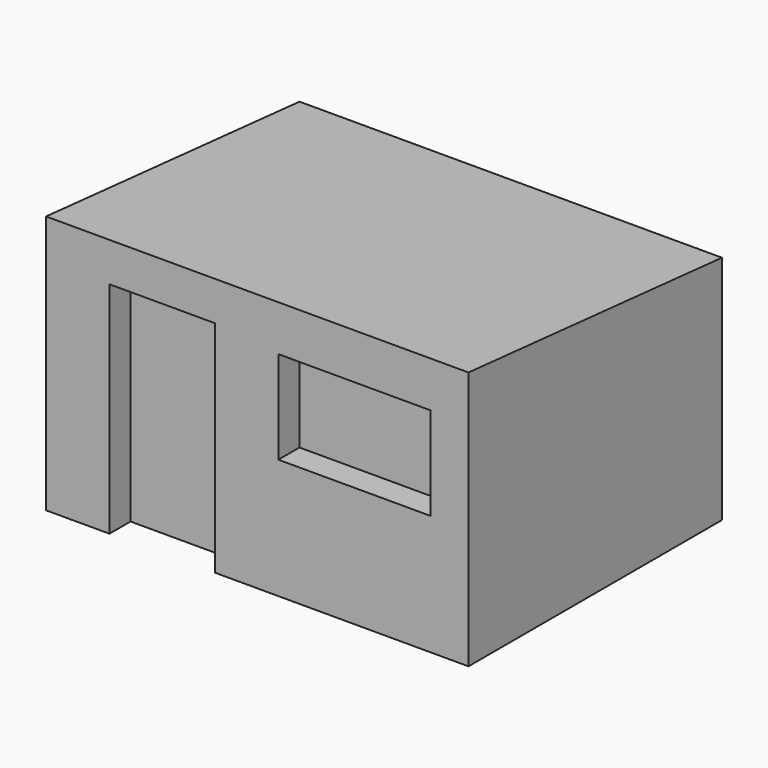
from build123d import *

# Parameters (mm, degrees)
F0_W     = 4000
F0_H     = 3000
F1_DEPTH = 2450
F3_DEPTH = 4000
F4_W     = 1440
F4_H     = 880
F4_W_2   = 1000
F4_H_2   = 2080
F5_DEPTH = 250


with BuildPart() as f1:
    # F0 (on Top) → F1 (new body)
    with BuildSketch(Plane.XY):
        Rectangle(F0_W, F0_H)
    extrude(amount=F1_DEPTH)

    # F2 (on face) → F3 (cut)
    with BuildSketch(Plane.YZ.offset(2000)):
        Polygon((1500, 2450), (-1500, 2450), (1500, 2187.534009), align=None)
    extrude(amount=-F3_DEPTH, mode=Mode.SUBTRACT)

    # F4 (on face) → F5 (cut)
    with BuildSketch(Plane.XZ.offset(1500)):
        with Locations((919.487209, 1577.487411)):
            Rectangle(F4_W, F4_H)
        with Locations((-900, 1040)):
            Rectangle(F4_W_2, F4_H_2)
    extrude(amount=-F5_DEPTH, mode=Mode.SUBTRACT)


solid = f1.part
